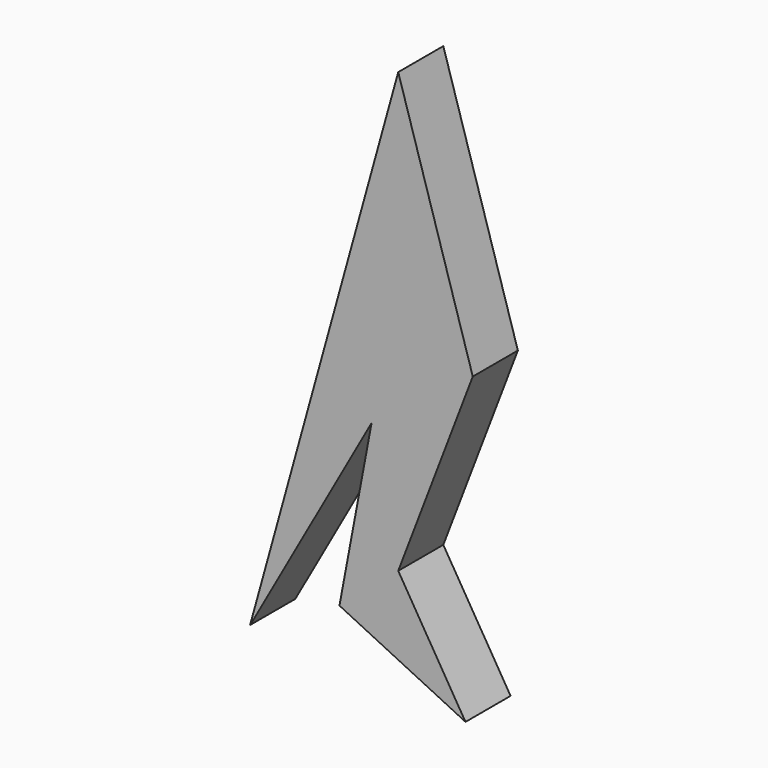
from build123d import *

# Parameters (mm, degrees)
F2_DEPTH = 25.4


with BuildPart() as f2:
    # F1 (on face) → F2 (new body)
    with BuildSketch(Plane.XZ):
        with BuildLine():
            Line((33.595659, -109.857202), (0, 0))
            Line((0, 0), (-66.741718, -241.01392))
            ThreePointArc((-66.741718, -241.01392), (-66.715884, -241.021072), (-66.69005, -241.028222))
            Line((-66.69005, -241.028222), (-12.01611, -143.133894))
            Line((-12.01611, -143.133894), (-26.489001, -220.296562))
            Line((-26.489001, -220.296562), (30.318644, -247.961536))
            Line((30.318644, -247.961536), (0, -197.876692))
            Line((0, -197.876692), (33.595659, -109.857202))
        make_face()
    extrude(amount=F2_DEPTH)


solid = f2.part
